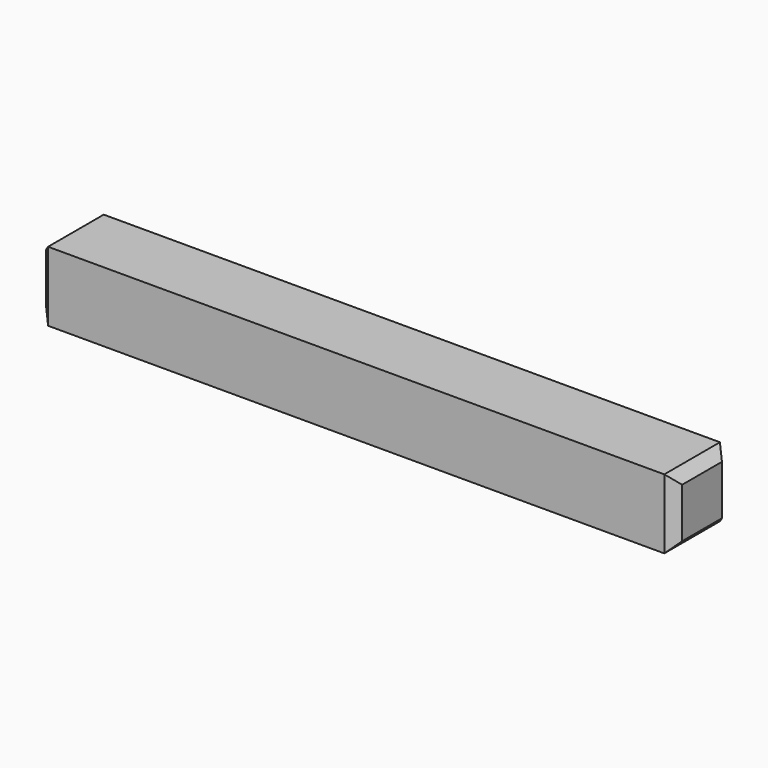
from build123d import *

# Parameters (mm, degrees)
F0_W     = 64
F0_H     = 7
F1_DEPTH = 7
F2_SIZE  = 1
F3_SIZE  = 1


with BuildPart() as f1:
    # F0 (on Front) → F1 (new body)
    with BuildSketch(Plane.XZ):
        with Locations((-9.344756, 6.493953)):
            Rectangle(F0_W, F0_H)
    extrude(amount=F1_DEPTH)

    # F2
    f2_edges = [f1.edges().sort_by_distance(p)[0] for p in [
        (22.655244, -3.5, 9.993953),
        (22.655244, -7, 6.493953),
        (22.655244, -3.5, 2.993953),
        (22.655244, 0, 6.493953),
    ]]
    chamfer(f2_edges, length=F2_SIZE)

    # F3
    f3_edges = [f1.edges().sort_by_distance(p)[0] for p in [
        (-41.344756, -7, 6.493953),
        (-41.344756, -3.5, 9.993953),
        (-41.344756, 0, 6.493953),
        (-41.344756, -3.5, 2.993953),
    ]]
    chamfer(f3_edges, length=F3_SIZE)


solid = f1.part
